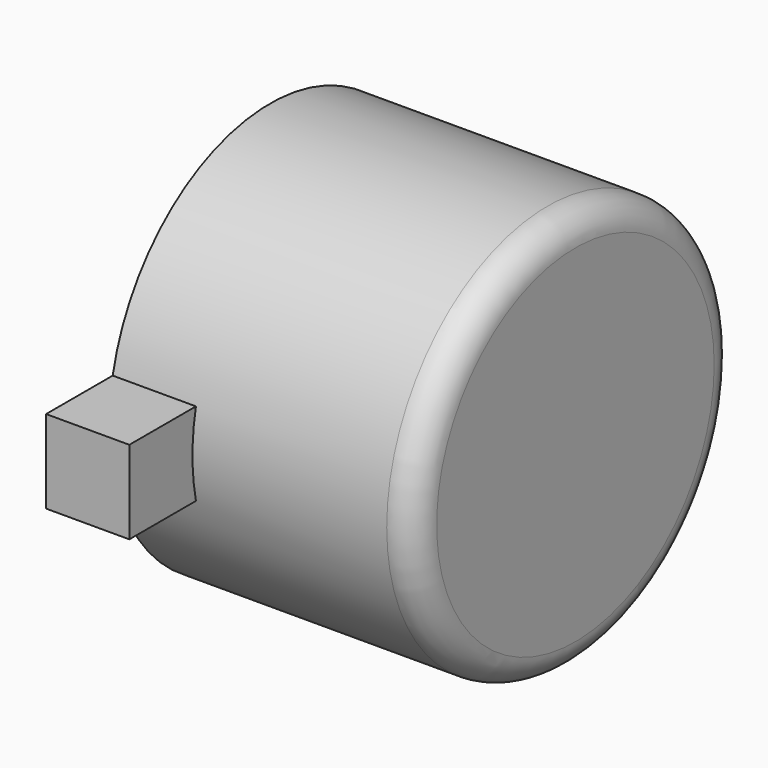
from build123d import *

# Parameters (mm, degrees)
F0_R     = 3.625
F1_DEPTH = 2.75
F2_R     = 0.5
F4_DEPTH = 1.5


with BuildPart() as f1:
    # F0 (on Right) → F1 (new body, symmetric)
    with BuildSketch(Plane.YZ):
        Circle(F0_R)
    extrude(amount=F1_DEPTH, both=True)

    # F2
    f2_edges = [f1.edges().sort_by_distance(p)[0] for p in [
        (2.75, -3.625, 0),
    ]]
    fillet(f2_edges, radius=F2_R)

    # F3 (on face) → F4 (join)
    with BuildSketch(Plane(origin=(-2.75, 0, 0), x_dir=(0, -1, 0), z_dir=(-1, 0, 0))):
        with BuildLine():
            Line((3.546565, -0.75), (5.046565, -0.75))
            Line((5.046565, -0.75), (5.046565, 0.75))
            Line((5.046565, 0.75), (3.546565, 0.75))
            ThreePointArc((3.546565, 0.75), (3.625, 0), (3.546565, -0.75))
        make_face()
        with BuildLine():
            Line((-3.546565, 0.75), (-5.046565, 0.75))
            Line((-5.046565, 0.75), (-5.046565, -0.75))
            Line((-5.046565, -0.75), (-3.546565, -0.75))
            ThreePointArc((-3.546565, -0.75), (-3.625, 0), (-3.546565, 0.75))
        make_face()
    extrude(amount=-F4_DEPTH)


solid = f1.part
